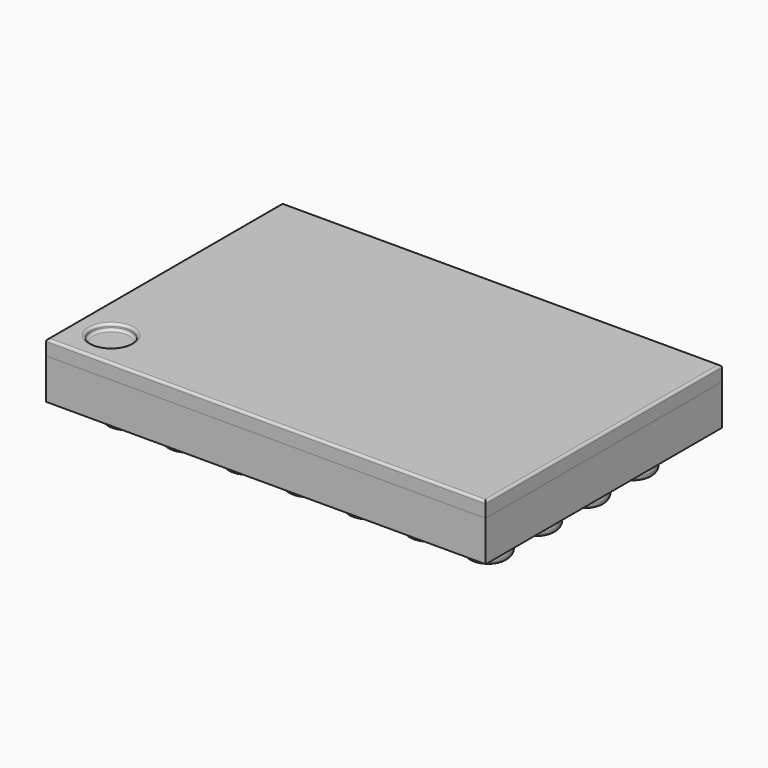
from build123d import *

# Parameters (mm, degrees)
F0_W     = 3.6455
F0_H     = 2.4495
F1_DEPTH = 0.335
F2_DEPTH = 0.125
F3_R     = 0.1675
F4_DEPTH = 0.24
F5_R     = 0.05
F5_2_R   = 0.05
F5_3_R   = 0.05
F5_4_R   = 0.05
F5_5_R   = 0.05
F5_6_R   = 0.05
F5_7_R   = 0.05
F5_8_R   = 0.05
F5_9_R   = 0.05
F5_10_R  = 0.05
F5_11_R  = 0.05
F5_12_R  = 0.05
F5_13_R  = 0.05
F5_14_R  = 0.05
F5_15_R  = 0.05
F5_16_R  = 0.05
F5_17_R  = 0.05
F5_18_R  = 0.05
F5_19_R  = 0.05
F5_20_R  = 0.05
F5_21_R  = 0.05
F5_22_R  = 0.05
F5_23_R  = 0.05
F5_24_R  = 0.05
F5_25_R  = 0.05
F5_26_R  = 0.05
F5_27_R  = 0.05
F5_28_R  = 0.05
F6_R     = 0.1675
F7_DEPTH = 0.05
F8_R     = 0.02


with BuildPart() as f1:
    # F0 (on Top) → F1 (new body)
    with BuildSketch(Plane.XY):
        Rectangle(F0_W, F0_H)
    extrude(amount=F1_DEPTH)


with BuildPart() as f2:
    # F2 (new): a face of the model
    f2_faces = [f1.part.faces().sort_by_distance(p)[0] for p in [
        (0, 0, 0.335),
    ]]
    extrude(f2_faces, amount=F2_DEPTH)

    # F6 (on face) → F7 (cut)
    with BuildSketch(Plane.XY.offset(0.46)):
        with Locations((-1.52275, -0.92475)):
            Circle(F6_R)
    extrude(amount=-F7_DEPTH, mode=Mode.SUBTRACT)

    # F8
    f8_edges = [f2.edges().sort_by_distance(p)[0] for p in [
        (-1.69025, -0.92475, 0.46),
        (0, 1.22475, 0.46),
        (1.82275, 0, 0.46),
        (-1.82275, 0, 0.46),
        (0, -1.22475, 0.46),
        (-1.69025, -0.92475, 0.41),
    ]]
    fillet(f8_edges, radius=F8_R)


with BuildPart() as f4:
    # F3 (on face) → F4 (new body)
    with BuildSketch(Plane(origin=(0, 0, 0), x_dir=(1, 0, 0), z_dir=(0, 0, -1))):
        with Locations((1.464, -0.75)):
            Circle(F3_R)
    extrude(amount=F4_DEPTH)

    # F5#28
    f5_28_edges = [f4.edges().sort_by_distance(p)[0] for p in [
        (1.2965, 0.75, -0.24),
        (1.2965, 0.75, 0),
    ]]
    fillet(f5_28_edges, radius=F5_28_R)


with BuildPart() as f4b:
    # F3 (on face) → F4, piece 2 (new body)
    with BuildSketch(Plane(origin=(0, 0, 0), x_dir=(1, 0, 0), z_dir=(0, 0, -1))):
        with Locations((1.464, -0.25)):
            Circle(F3_R)
    extrude(amount=F4_DEPTH)

    # F5#21
    f5_21_edges = [f4b.edges().sort_by_distance(p)[0] for p in [
        (1.2965, 0.25, -0.24),
        (1.2965, 0.25, 0),
    ]]
    fillet(f5_21_edges, radius=F5_21_R)


with BuildPart() as f4c:
    # F3 (on face) → F4, piece 3 (new body)
    with BuildSketch(Plane(origin=(0, 0, 0), x_dir=(1, 0, 0), z_dir=(0, 0, -1))):
        with Locations((0.964, -0.75)):
            Circle(F3_R)
    extrude(amount=F4_DEPTH)

    # F5#27
    f5_27_edges = [f4c.edges().sort_by_distance(p)[0] for p in [
        (0.7965, 0.75, -0.24),
        (0.7965, 0.75, 0),
    ]]
    fillet(f5_27_edges, radius=F5_27_R)


with BuildPart() as f4d:
    # F3 (on face) → F4, piece 4 (new body)
    with BuildSketch(Plane(origin=(0, 0, 0), x_dir=(1, 0, 0), z_dir=(0, 0, -1))):
        with Locations((0.964, -0.25)):
            Circle(F3_R)
    extrude(amount=F4_DEPTH)

    # F5#20
    f5_20_edges = [f4d.edges().sort_by_distance(p)[0] for p in [
        (0.7965, 0.25, -0.24),
        (0.7965, 0.25, 0),
    ]]
    fillet(f5_20_edges, radius=F5_20_R)


with BuildPart() as f4e:
    # F3 (on face) → F4, piece 5 (new body)
    with BuildSketch(Plane(origin=(0, 0, 0), x_dir=(1, 0, 0), z_dir=(0, 0, -1))):
        with Locations((0.464, -0.75)):
            Circle(F3_R)
    extrude(amount=F4_DEPTH)

    # F5#26
    f5_26_edges = [f4e.edges().sort_by_distance(p)[0] for p in [
        (0.2965, 0.75, 0),
        (0.2965, 0.75, -0.24),
    ]]
    fillet(f5_26_edges, radius=F5_26_R)


with BuildPart() as f4f:
    # F3 (on face) → F4, piece 6 (new body)
    with BuildSketch(Plane(origin=(0, 0, 0), x_dir=(1, 0, 0), z_dir=(0, 0, -1))):
        with Locations((0.464, -0.25)):
            Circle(F3_R)
    extrude(amount=F4_DEPTH)

    # F5#19
    f5_19_edges = [f4f.edges().sort_by_distance(p)[0] for p in [
        (0.2965, 0.25, -0.24),
        (0.2965, 0.25, 0),
    ]]
    fillet(f5_19_edges, radius=F5_19_R)


with BuildPart() as f4g:
    # F3 (on face) → F4, piece 7 (new body)
    with BuildSketch(Plane(origin=(0, 0, 0), x_dir=(1, 0, 0), z_dir=(0, 0, -1))):
        with Locations((-0.036, -0.75)):
            Circle(F3_R)
    extrude(amount=F4_DEPTH)

    # F5#25
    f5_25_edges = [f4g.edges().sort_by_distance(p)[0] for p in [
        (-0.2035, 0.75, 0),
        (-0.2035, 0.75, -0.24),
    ]]
    fillet(f5_25_edges, radius=F5_25_R)


with BuildPart() as f4h:
    # F3 (on face) → F4, piece 8 (new body)
    with BuildSketch(Plane(origin=(0, 0, 0), x_dir=(1, 0, 0), z_dir=(0, 0, -1))):
        with Locations((-0.036, -0.25)):
            Circle(F3_R)
    extrude(amount=F4_DEPTH)

    # F5#18
    f5_18_edges = [f4h.edges().sort_by_distance(p)[0] for p in [
        (-0.2035, 0.25, -0.24),
        (-0.2035, 0.25, 0),
    ]]
    fillet(f5_18_edges, radius=F5_18_R)


with BuildPart() as f4i:
    # F3 (on face) → F4, piece 9 (new body)
    with BuildSketch(Plane(origin=(0, 0, 0), x_dir=(1, 0, 0), z_dir=(0, 0, -1))):
        with Locations((-0.536, -0.7500000065)):
            Circle(F3_R)
    extrude(amount=F4_DEPTH)

    # F5#24
    f5_24_edges = [f4i.edges().sort_by_distance(p)[0] for p in [
        (-0.7035, 0.75, -0.24),
        (-0.7035, 0.75, 0),
    ]]
    fillet(f5_24_edges, radius=F5_24_R)


with BuildPart() as f4j:
    # F3 (on face) → F4, piece 10 (new body)
    with BuildSketch(Plane(origin=(0, 0, 0), x_dir=(1, 0, 0), z_dir=(0, 0, -1))):
        with Locations((-0.536, -0.2500000065)):
            Circle(F3_R)
    extrude(amount=F4_DEPTH)

    # F5#17
    f5_17_edges = [f4j.edges().sort_by_distance(p)[0] for p in [
        (-0.7035, 0.25, -0.24),
        (-0.7035, 0.25, 0),
    ]]
    fillet(f5_17_edges, radius=F5_17_R)


with BuildPart() as f4k:
    # F3 (on face) → F4, piece 11 (new body)
    with BuildSketch(Plane(origin=(0, 0, 0), x_dir=(1, 0, 0), z_dir=(0, 0, -1))):
        with Locations((-1.036, -0.7500000065)):
            Circle(F3_R)
    extrude(amount=F4_DEPTH)

    # F5#23
    f5_23_edges = [f4k.edges().sort_by_distance(p)[0] for p in [
        (-1.2035, 0.75, -0.24),
        (-1.2035, 0.75, 0),
    ]]
    fillet(f5_23_edges, radius=F5_23_R)


with BuildPart() as f4l:
    # F3 (on face) → F4, piece 12 (new body)
    with BuildSketch(Plane(origin=(0, 0, 0), x_dir=(1, 0, 0), z_dir=(0, 0, -1))):
        with Locations((-1.036, -0.2500000065)):
            Circle(F3_R)
    extrude(amount=F4_DEPTH)

    # F5#16
    f5_16_edges = [f4l.edges().sort_by_distance(p)[0] for p in [
        (-1.2035, 0.25, -0.24),
        (-1.2035, 0.25, 0),
    ]]
    fillet(f5_16_edges, radius=F5_16_R)


with BuildPart() as f4m:
    # F3 (on face) → F4, piece 13 (new body)
    with BuildSketch(Plane(origin=(0, 0, 0), x_dir=(1, 0, 0), z_dir=(0, 0, -1))):
        with Locations((-1.536, -0.7500000065)):
            Circle(F3_R)
    extrude(amount=F4_DEPTH)

    # F5#22
    f5_22_edges = [f4m.edges().sort_by_distance(p)[0] for p in [
        (-1.7035, 0.75, -0.24),
        (-1.7035, 0.75, 0),
    ]]
    fillet(f5_22_edges, radius=F5_22_R)


with BuildPart() as f4n:
    # F3 (on face) → F4, piece 14 (new body)
    with BuildSketch(Plane(origin=(0, 0, 0), x_dir=(1, 0, 0), z_dir=(0, 0, -1))):
        with Locations((-1.536, -0.2500000065)):
            Circle(F3_R)
    extrude(amount=F4_DEPTH)

    # F5#15
    f5_15_edges = [f4n.edges().sort_by_distance(p)[0] for p in [
        (-1.7035, 0.25, -0.24),
        (-1.7035, 0.25, 0),
    ]]
    fillet(f5_15_edges, radius=F5_15_R)


with BuildPart() as f4o:
    # F3 (on face) → F4, piece 15 (new body)
    with BuildSketch(Plane(origin=(0, 0, 0), x_dir=(1, 0, 0), z_dir=(0, 0, -1))):
        with Locations((-1.536, 0.2500000065)):
            Circle(F3_R)
    extrude(amount=F4_DEPTH)

    # F5#14
    f5_14_edges = [f4o.edges().sort_by_distance(p)[0] for p in [
        (-1.7035, -0.25, -0.24),
        (-1.7035, -0.25, 0),
    ]]
    fillet(f5_14_edges, radius=F5_14_R)


with BuildPart() as f4p:
    # F3 (on face) → F4, piece 16 (new body)
    with BuildSketch(Plane(origin=(0, 0, 0), x_dir=(1, 0, 0), z_dir=(0, 0, -1))):
        with Locations((-1.536, 0.7500000065)):
            Circle(F3_R)
    extrude(amount=F4_DEPTH)

    # F5
    f5_edges = [f4p.edges().sort_by_distance(p)[0] for p in [
        (-1.7035, -0.75, -0.24),
        (-1.7035, -0.75, 0),
    ]]
    fillet(f5_edges, radius=F5_R)


with BuildPart() as f4q:
    # F3 (on face) → F4, piece 17 (new body)
    with BuildSketch(Plane(origin=(0, 0, 0), x_dir=(1, 0, 0), z_dir=(0, 0, -1))):
        with Locations((-1.036, 0.7500000065)):
            Circle(F3_R)
    extrude(amount=F4_DEPTH)

    # F5#2
    f5_2_edges = [f4q.edges().sort_by_distance(p)[0] for p in [
        (-1.2035, -0.75, -0.24),
        (-1.2035, -0.75, 0),
    ]]
    fillet(f5_2_edges, radius=F5_2_R)


with BuildPart() as f4r:
    # F3 (on face) → F4, piece 18 (new body)
    with BuildSketch(Plane(origin=(0, 0, 0), x_dir=(1, 0, 0), z_dir=(0, 0, -1))):
        with Locations((-1.036, 0.2500000065)):
            Circle(F3_R)
    extrude(amount=F4_DEPTH)

    # F5#13
    f5_13_edges = [f4r.edges().sort_by_distance(p)[0] for p in [
        (-1.2035, -0.25, -0.24),
        (-1.2035, -0.25, 0),
    ]]
    fillet(f5_13_edges, radius=F5_13_R)


with BuildPart() as f4s:
    # F3 (on face) → F4, piece 19 (new body)
    with BuildSketch(Plane(origin=(0, 0, 0), x_dir=(1, 0, 0), z_dir=(0, 0, -1))):
        with Locations((-0.536, 0.2500000065)):
            Circle(F3_R)
    extrude(amount=F4_DEPTH)

    # F5#12
    f5_12_edges = [f4s.edges().sort_by_distance(p)[0] for p in [
        (-0.7035, -0.25, -0.24),
        (-0.7035, -0.25, 0),
    ]]
    fillet(f5_12_edges, radius=F5_12_R)


with BuildPart() as f4t:
    # F3 (on face) → F4, piece 20 (new body)
    with BuildSketch(Plane(origin=(0, 0, 0), x_dir=(1, 0, 0), z_dir=(0, 0, -1))):
        with Locations((-0.536, 0.7500000065)):
            Circle(F3_R)
    extrude(amount=F4_DEPTH)

    # F5#3
    f5_3_edges = [f4t.edges().sort_by_distance(p)[0] for p in [
        (-0.7035, -0.75, -0.24),
        (-0.7035, -0.75, 0),
    ]]
    fillet(f5_3_edges, radius=F5_3_R)


with BuildPart() as f4u:
    # F3 (on face) → F4, piece 21 (new body)
    with BuildSketch(Plane(origin=(0, 0, 0), x_dir=(1, 0, 0), z_dir=(0, 0, -1))):
        with Locations((-0.036, 0.75)):
            Circle(F3_R)
    extrude(amount=F4_DEPTH)

    # F5#6
    f5_6_edges = [f4u.edges().sort_by_distance(p)[0] for p in [
        (-0.2035, -0.75, -0.24),
        (-0.2035, -0.75, 0),
    ]]
    fillet(f5_6_edges, radius=F5_6_R)


with BuildPart() as f4v:
    # F3 (on face) → F4, piece 22 (new body)
    with BuildSketch(Plane(origin=(0, 0, 0), x_dir=(1, 0, 0), z_dir=(0, 0, -1))):
        with Locations((-0.036, 0.25)):
            Circle(F3_R)
    extrude(amount=F4_DEPTH)

    # F5#11
    f5_11_edges = [f4v.edges().sort_by_distance(p)[0] for p in [
        (-0.2035, -0.25, -0.24),
        (-0.2035, -0.25, 0),
    ]]
    fillet(f5_11_edges, radius=F5_11_R)


with BuildPart() as f4w:
    # F3 (on face) → F4, piece 23 (new body)
    with BuildSketch(Plane(origin=(0, 0, 0), x_dir=(1, 0, 0), z_dir=(0, 0, -1))):
        with Locations((0.464, 0.25)):
            Circle(F3_R)
    extrude(amount=F4_DEPTH)

    # F5#10
    f5_10_edges = [f4w.edges().sort_by_distance(p)[0] for p in [
        (0.2965, -0.25, -0.24),
        (0.2965, -0.25, 0),
    ]]
    fillet(f5_10_edges, radius=F5_10_R)


with BuildPart() as f4x:
    # F3 (on face) → F4, piece 24 (new body)
    with BuildSketch(Plane(origin=(0, 0, 0), x_dir=(1, 0, 0), z_dir=(0, 0, -1))):
        with Locations((0.464, 0.75)):
            Circle(F3_R)
    extrude(amount=F4_DEPTH)

    # F5#4
    f5_4_edges = [f4x.edges().sort_by_distance(p)[0] for p in [
        (0.2965, -0.75, -0.24),
        (0.2965, -0.75, 0),
    ]]
    fillet(f5_4_edges, radius=F5_4_R)


with BuildPart() as f4y:
    # F3 (on face) → F4, piece 25 (new body)
    with BuildSketch(Plane(origin=(0, 0, 0), x_dir=(1, 0, 0), z_dir=(0, 0, -1))):
        with Locations((0.964, 0.75)):
            Circle(F3_R)
    extrude(amount=F4_DEPTH)

    # F5#5
    f5_5_edges = [f4y.edges().sort_by_distance(p)[0] for p in [
        (0.7965, -0.75, -0.24),
        (0.7965, -0.75, 0),
    ]]
    fillet(f5_5_edges, radius=F5_5_R)


with BuildPart() as f4z:
    # F3 (on face) → F4, piece 26 (new body)
    with BuildSketch(Plane(origin=(0, 0, 0), x_dir=(1, 0, 0), z_dir=(0, 0, -1))):
        with Locations((0.964, 0.25)):
            Circle(F3_R)
    extrude(amount=F4_DEPTH)

    # F5#9
    f5_9_edges = [f4z.edges().sort_by_distance(p)[0] for p in [
        (0.7965, -0.25, -0.24),
        (0.7965, -0.25, 0),
    ]]
    fillet(f5_9_edges, radius=F5_9_R)


with BuildPart() as f4ba:
    # F3 (on face) → F4, piece 27 (new body)
    with BuildSketch(Plane(origin=(0, 0, 0), x_dir=(1, 0, 0), z_dir=(0, 0, -1))):
        with Locations((1.464, 0.25)):
            Circle(F3_R)
    extrude(amount=F4_DEPTH)

    # F5#8
    f5_8_edges = [f4ba.edges().sort_by_distance(p)[0] for p in [
        (1.2965, -0.25, -0.24),
        (1.2965, -0.25, 0),
    ]]
    fillet(f5_8_edges, radius=F5_8_R)


with BuildPart() as f4bb:
    # F3 (on face) → F4, piece 28 (new body)
    with BuildSketch(Plane(origin=(0, 0, 0), x_dir=(1, 0, 0), z_dir=(0, 0, -1))):
        with Locations((1.464, 0.75)):
            Circle(F3_R)
    extrude(amount=F4_DEPTH)

    # F5#7
    f5_7_edges = [f4bb.edges().sort_by_distance(p)[0] for p in [
        (1.2965, -0.75, -0.24),
        (1.2965, -0.75, 0),
    ]]
    fillet(f5_7_edges, radius=F5_7_R)


solid = Compound([f1.part, f2.part, f4.part, f4b.part, f4c.part, f4d.part, f4e.part, f4f.part, f4g.part, f4h.part, f4i.part, f4j.part, f4k.part, f4l.part, f4m.part, f4n.part, f4o.part, f4p.part, f4q.part, f4r.part, f4s.part, f4t.part, f4u.part, f4v.part, f4w.part, f4x.part, f4y.part, f4z.part, f4ba.part, f4bb.part])
